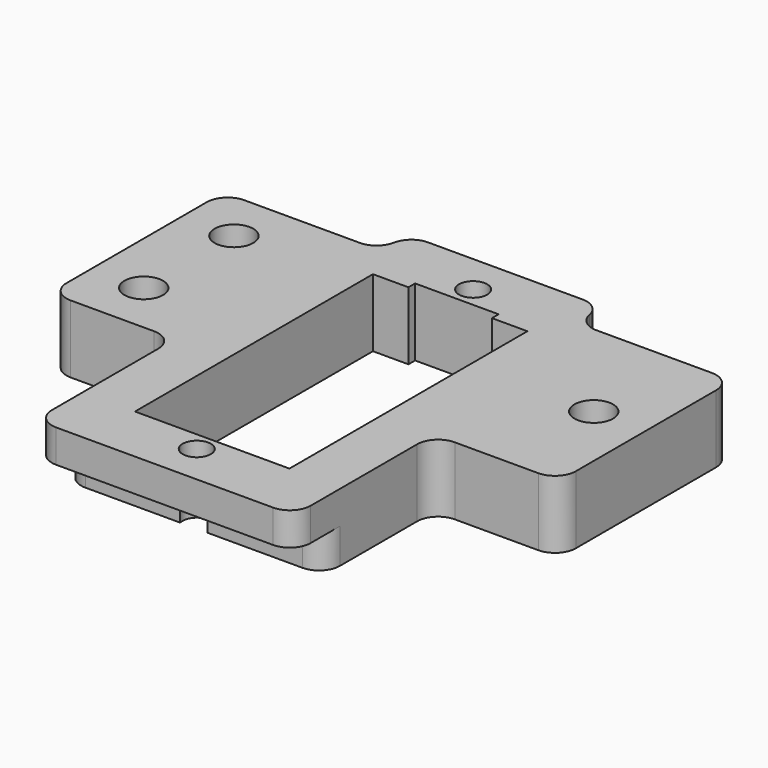
from build123d import *

# Parameters (mm, degrees)
F0_R     = 1.85
F0_R_2   = 1.35
F1_DEPTH = 6.5
F2_START = 3.35
F2_DEPTH = 3.15
F3_R     = 2
F4_R     = 2


with BuildPart() as f1:
    # F0 (on Top) → F1 (new body)
    with BuildSketch(Plane.XY):
        with BuildLine():
            Line((-7.4, -10.4), (-12.4, -10.4))
            Line((-12.4, -10.4), (-12.4, -23.65))
            Line((-12.4, -23.65), (-1.303840481, -23.65))
            ThreePointArc((-1.303840481, -23.65), (-0.1765153684, -21.9615896277), (1.35, -23.3))
            ThreePointArc((1.35, -23.3), (1.3384103723, -23.4765153684), (1.303840481, -23.65))
            Line((1.303840481, -23.65), (12.4, -23.65))
            Line((12.4, -23.65), (12.4, -10.4))
            Line((12.4, -10.4), (7.4, -10.4))
            Line((7.4, -10.4), (7.4, -20.25))
            Line((7.4, -20.25), (7.4, -21.45))
            Line((7.4, -21.45), (-7.4, -21.45))
            Line((-7.4, -21.45), (-7.4, -20.25))
            Line((-7.4, -20.25), (-7.4, -10.4))
        make_face()
        Polygon((-24.4, -5.2615826042), (-24.4, -10.4), (-12.4, -10.4), (-7.4, -10.4), (-7.4, 7.05), (-4, 7.05), (-4, 7.85), (4, 7.85), (4, 7.05), (7.4, 7.05), (7.4, -10.4), (12.4, -10.4), (24.4, -10.4), (24.4, 10.4), (9.4, 10.4), (9.4, 13.65), (-9.4, 13.65), (-9.4, 10.4), (-24.4, 10.4), align=None)
        with Locations((-19.4, -5.4)):
            Circle(F0_R, mode=Mode.SUBTRACT)
        with Locations((-19.4, 5.4)):
            Circle(F0_R, mode=Mode.SUBTRACT)
        with Locations((19.4, 0)):
            Circle(F0_R, mode=Mode.SUBTRACT)
        with Locations((0, 9.8)):
            Circle(F0_R_2, mode=Mode.SUBTRACT)
    extrude(amount=F1_DEPTH)

    # F0 (on Top) → F2 (join)
    with BuildSketch(Plane.XY.offset(F2_START)):
        with BuildLine():
            Line((-1.303840481, -23.65), (-12.4, -23.65))
            Line((-12.4, -23.65), (-12.4, -27.15))
            Line((-12.4, -27.15), (12.4, -27.15))
            Line((12.4, -27.15), (12.4, -23.65))
            Line((12.4, -23.65), (1.303840481, -23.65))
            ThreePointArc((1.303840481, -23.65), (0, -24.65), (-1.303840481, -23.65))
        make_face()
    extrude(amount=F2_DEPTH)

    # F3
    f3_edges = [f1.edges().sort_by_distance(p)[0] for p in [
        (-24.4, -10.4, 3.25),
        (-24.4, 10.4, 3.25),
        (24.4, -10.4, 3.25),
        (24.4, 10.4, 3.25),
        (9.4, 13.65, 3.25),
        (-12.4, -27.15, 4.925),
        (-12.4, -23.65, 1.675),
        (12.4, -27.15, 4.925),
        (12.4, -23.65, 1.675),
        (12.4, -10.4, 3.25),
        (-12.4, -10.4, 3.25),
        (-9.4, 13.65, 3.25),
    ]]
    fillet(f3_edges, radius=F3_R)

    # F4
    f4_edges = [f1.edges().sort_by_distance(p)[0] for p in [
        (-9.4, 10.4, 3.25),
        (9.4, 10.4, 3.25),
    ]]
    fillet(f4_edges, radius=F4_R)


solid = f1.part
